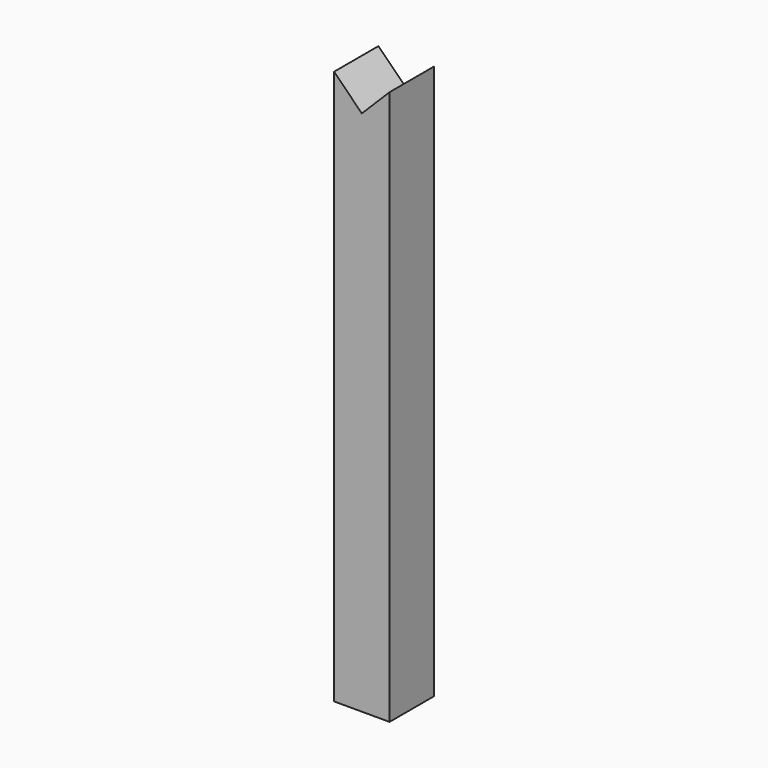
from build123d import *

# Parameters (mm, degrees)
F0_W     = 3.175
F0_H     = 31.75
F1_DEPTH = 1.5875
F3_DEPTH = 3.176


with BuildPart() as f1:
    # F0 (on Front) → F1 (new body, symmetric)
    with BuildSketch(Plane.XZ):
        Rectangle(F0_W, F0_H)
    extrude(amount=F1_DEPTH, both=True)

    # F2 (on face) → F3 (cut, through all)
    with BuildSketch(Plane.XZ.offset(1.5875)):
        Polygon((1.5875, 15.875), (-1.5875, 15.875), (0, 14.287081), align=None)
    extrude(amount=-F3_DEPTH, mode=Mode.SUBTRACT)


solid = f1.part
